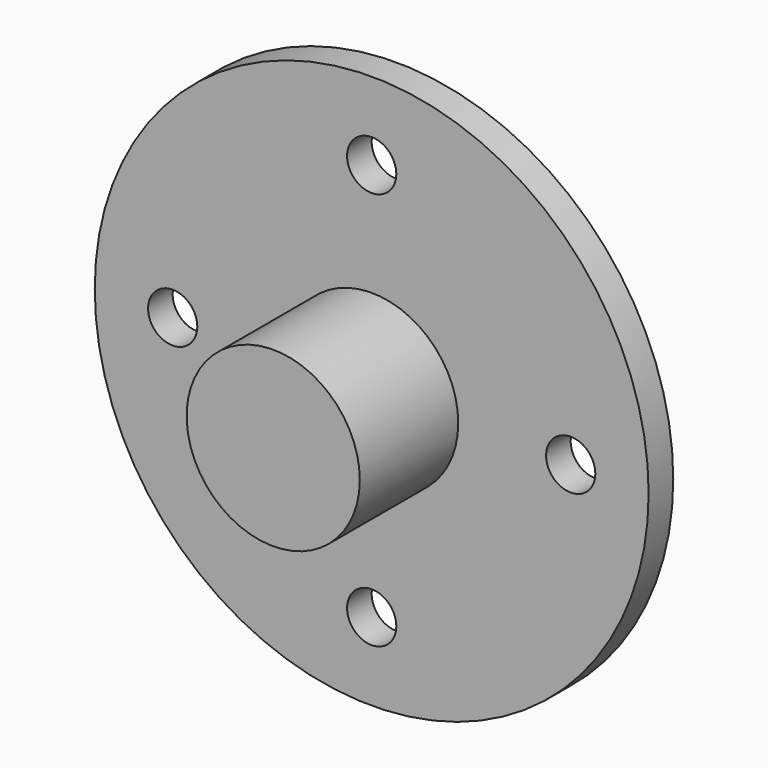
from build123d import *

# Parameters (mm, degrees)
F0_R     = 28.575
F0_R_2   = 2.54
F0_R_3   = 12.7
F1_DEPTH = 3.175
F2_R     = 8.930906
F3_DEPTH = 12.7


with BuildPart() as f1:
    # F0 (on Front) → F1 (new body)
    with BuildSketch(Plane.XZ):
        Circle(F0_R)
        with Locations((0, -20.533316)):
            Circle(F0_R_2, mode=Mode.SUBTRACT)
        with Locations((-20.533316, 0)):
            Circle(F0_R_2, mode=Mode.SUBTRACT)
        Circle(F0_R_3, mode=Mode.SUBTRACT)
        with Locations((0, 20.533316)):
            Circle(F0_R_2, mode=Mode.SUBTRACT)
        with Locations((20.533316, 0)):
            Circle(F0_R_2, mode=Mode.SUBTRACT)
        Circle(F0_R_3)
    extrude(amount=F1_DEPTH)

    # F2 (on face) → F3 (join)
    with BuildSketch(Plane.XZ.offset(3.175)):
        Circle(F2_R)
    extrude(amount=F3_DEPTH)


solid = f1.part
